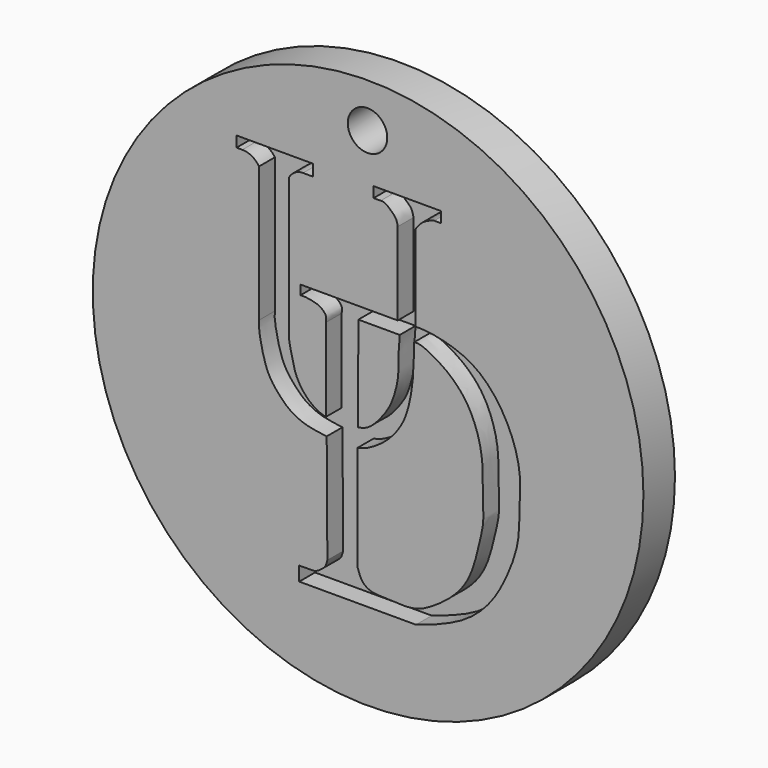
from build123d import *

# Parameters (mm, degrees)
F1_R     = 27.9179643297
F2_DEPTH = 4
F3_DEPTH = 2
F4_R     = 2
F5_DEPTH = 25


with BuildPart() as f2:
    # F1 (on Front) → F2 (new body)
    with BuildSketch(Plane.XZ):
        with Locations((34.4365164638, 29.3412599713)):
            Circle(F1_R)
    extrude(amount=-F2_DEPTH)

    # F0 (on Front) → F3 (cut)
    with BuildSketch(Plane.XZ):
        with BuildLine():
            Line((28.8679711521, 48.000831157), (21.2418399751, 48.000831157))
            Line((21.2418399751, 48.000831157), (21.1016796529, 48.000831157))
            Line((21.1016796529, 48.000831157), (21.1016796529, 46.9109527767))
            Line((21.1016796529, 46.9109527767), (21.6799061745, 46.9109527767))
            ThreePointArc((21.6799061745, 46.9109527767), (22.6499247341, 46.6616237032), (23.3794841915, 45.9754429758))
            Line((23.3794841915, 45.9754429758), (23.3794841915, 32.2561040521))
            add(Edge.make_bspline(
                [(23.3794841915, 32.2561040521), (23.3661779434, 32.0413049632), (23.3320361161, 31.4901628764), (23.6830336391, 29.7012833817), (24.04912574, 28.4066435414), (24.5758922104, 27.2393122591), (25.6286713635, 25.9943517485), (26.6272868609, 25.0908477478), (28.1867559009, 24.3640116011), (29.5303038983, 24.2007807914), (30.2409324795, 24.1144448519)],
                knots=[0, 0, 0, 0, 0.0888691777, 0.2280249154, 0.350012674, 0.4658880454, 0.5969114819, 0.716998109, 0.8503148137, 1, 1, 1, 1], degree=3))
            Line((30.2409324795, 24.1144448519), (30.3066652268, 13.0882738158))
            add(Edge.make_bspline(
                [(30.3066652268, 13.0882738158), (30.2519389049, 12.8681959728), (30.1482070308, 12.4510459374), (29.7504803796, 12.113676258), (29.1331387589, 11.6544957812), (28.4405708125, 11.6986950554), (27.8053497246, 11.6841554859), (27.4567119777, 11.6761755198)],
                knots=[0, 0, 0, 0, 0.1909217212, 0.3618856023, 0.5653560725, 0.7614479707, 1, 1, 1, 1], degree=3))
            Line((27.4567119777, 11.6761755198), (27.4567119777, 10.2444272488))
            Line((27.4567119777, 10.2444272488), (39.2920188606, 10.2444272488))
            add(Edge.make_bspline(
                [(39.2920188606, 10.2444272488), (39.774682126, 10.3988373959), (40.9569851668, 10.7770712485), (44.3231835186, 12.1005887696), (47.1546084039, 14.7204409379), (48.8954359497, 18.2960298868), (49.8018932136, 21.1532808912), (49.7495385908, 24.2814068636), (49.9847142006, 27.2262407584), (49.0185777967, 30.6280669447), (47.0902622954, 33.7806859912), (44.4294388961, 35.9695773633), (40.7821955148, 36.8440674423), (39.6719954936, 36.8345831371), (39.2397977412, 36.8308909237)],
                knots=[0, 0, 0, 0, 0.0615832149, 0.1508505567, 0.2445844204, 0.3383755074, 0.4203584246, 0.5031957528, 0.5846146114, 0.6729862854, 0.7635389413, 0.8519093339, 0.9423487193, 1, 1, 1, 1], degree=3))
            Line((39.2397977412, 36.8308909237), (39.2397977412, 45.2651903033))
            add(Edge.make_bspline(
                [(39.2397977412, 45.2651903033), (39.2267765482, 45.3390324549), (39.1951002718, 45.5186661031), (39.5358008729, 45.9054656845), (39.9151458428, 46.4211622217), (40.7868707349, 46.8253428314), (41.0441350327, 46.882763452), (41.1419421434, 46.9045937061)],
                knots=[0, 0, 0, 0, 0.1349216013, 0.3282198439, 0.56053159, 0.8329222679, 1, 1, 1, 1], degree=3))
            Line((41.1419421434, 46.9045937061), (41.8343655765, 46.9045937061))
            Line((41.8343655765, 46.9045937061), (41.8343655765, 47.9957386851))
            Line((41.8343655765, 47.9957386851), (34.9940881133, 47.9957386851))
            Line((34.9940881133, 47.9957386851), (34.9940881133, 46.9255782664))
            Line((34.9940881133, 46.9255782664), (35.7074923813, 46.9255782664))
            add(Edge.make_bspline(
                [(35.7074923813, 46.9255782664), (35.7725247196, 46.9332369871), (35.9309551857, 46.9518950075), (36.3382974268, 46.7609951149), (36.6952182588, 46.4487825628), (37.0128103957, 46.167012536), (37.339789857, 45.7546042988), (37.4062912416, 45.3744266144), (37.4407209456, 45.1775975525)],
                knots=[0, 0, 0, 0, 0.1164756704, 0.2837556706, 0.4602097948, 0.6255055551, 0.8061133168, 1, 1, 1, 1], degree=3))
            Line((37.4407209456, 45.1775975525), (37.4407209456, 36.8000268936))
            Line((37.4407209456, 36.8000268936), (27.5614373386, 36.8000268936))
            Line((27.5614373386, 36.8000268936), (27.5614373386, 35.8287543058))
            add(Edge.make_bspline(
                [(30.1494058222, 34.2443399131), (30.1896564321, 34.4509421046), (30.2766012041, 34.8972205701), (29.5772517128, 35.520044137), (29.0139060262, 35.687739493), (28.0963009598, 35.8817409513), (27.7230364986, 35.8447632417), (27.5614373386, 35.8287543058)],
                knots=[0, 0, 0, 0, 0.188016088, 0.4061308867, 0.5960955039, 0.8251357038, 1, 1, 1, 1], degree=3))
            Line((30.1494058222, 34.2443399131), (30.1494058222, 25.8165877312))
            add(Edge.make_bspline(
                [(26.4220070094, 32.4044786394), (26.4054135192, 32.144103332), (26.3671691029, 31.5439943998), (26.7250529812, 30.137856966), (26.997643123, 28.6904244326), (27.9178734275, 27.1039006684), (29.2097838012, 26.097703964), (29.864963328, 25.9016872719), (30.1494058222, 25.8165877312)],
                knots=[0, 0, 0, 0, 0.132106129, 0.304476138, 0.4817482165, 0.6765618752, 0.8595811634, 1, 1, 1, 1], degree=3))
            Line((26.4220070094, 32.4044786394), (26.4220070094, 45.9754429758))
            ThreePointArc((26.4220070094, 45.9754429758), (27.0076995947, 46.6092174693), (27.8382524848, 46.8434989452))
            Line((27.8382524848, 46.8434989452), (28.8679711521, 46.8434989452))
            Line((28.8679711521, 46.8434989452), (28.8679711521, 48.000831157))
        make_face()
        with BuildLine():
            add(Edge.make_bspline(
                [(39.09862414, 35.3939756751), (39.2489142969, 35.4107928497), (39.639265501, 35.4544723857), (40.8527321152, 34.9290898948), (42.4915814336, 33.920624453), (43.934425555, 32.5212947097), (44.9117436655, 31.0245386214), (45.6828391517, 29.0810146814), (46.1131529724, 26.7864365553), (46.0320421568, 24.1289257106), (46.2303553926, 21.67390112), (45.6862086311, 19.5074958509), (44.9519356526, 16.3357981895), (43.2911073701, 14.0788427037), (40.9393886003, 12.35222079), (38.9754938067, 11.387406624), (36.3568333041, 11.6507746265), (34.9065236601, 11.5992055554), (33.7840628182, 12.1906613468), (33.5150350229, 13.0170747001), (33.3767347038, 13.4411733598)],
                knots=[0, 0, 0, 0, 0.0278621403, 0.072346602, 0.1281760017, 0.184186641, 0.2368545361, 0.2935923676, 0.3541545772, 0.4189988933, 0.4805108226, 0.5397349175, 0.6105127582, 0.676938702, 0.7437706408, 0.8022168053, 0.8654938882, 0.9133444026, 0.9552158969, 1, 1, 1, 1], degree=3))
            Line((33.3767347038, 13.4411733598), (33.3767347038, 24.1144448519))
            add(Edge.make_bspline(
                [(33.3767347038, 24.1144448519), (33.6901716031, 24.1916175876), (34.4632174132, 24.38195274), (36.4247235951, 25.6354977326), (37.910338629, 27.5423966525), (38.5769336104, 29.3999250787), (38.987720793, 31.6925237691), (39.0753395699, 33.8937436106), (39.0914103783, 34.9291907767), (39.09862414, 35.3939756751)],
                knots=[0, 0, 0, 0, 0.1061132557, 0.2617126696, 0.4217322602, 0.5651750938, 0.7223566935, 0.8753732491, 1, 1, 1, 1], degree=3))
        make_face(mode=Mode.SUBTRACT)
        with BuildLine():
            Line((33.4505289793, 35.5766043067), (37.4476835132, 35.5766043067))
            Line((37.4476835132, 35.5766043067), (37.6491434872, 35.5766043067))
            add(Edge.make_bspline(
                [(33.4158986807, 25.9369481355), (33.7826276111, 26.0178916222), (34.6424104405, 26.2076607246), (36.1064740511, 27.9584988419), (36.8783895278, 29.2442653684), (37.5289813574, 31.4438618672), (37.514839846, 32.9876868997), (37.5193508062, 34.1826977599), (37.6115348752, 35.2757328046), (37.6396337795, 35.5005259857), (37.6491434872, 35.5766043067)],
                knots=[0, 0, 0, 0, 0.118540095, 0.2779130028, 0.4147721278, 0.5762668706, 0.7112726522, 0.8315398927, 0.9429868732, 1, 1, 1, 1], degree=3))
            Line((33.4158986807, 25.9369481355), (33.4505289793, 35.5766043067))
        make_face(mode=Mode.SUBTRACT)
    extrude(amount=-F3_DEPTH, mode=Mode.SUBTRACT)

    # F4 (on face) → F5 (cut)
    with BuildSketch(Plane.XZ):
        with Locations((34.3794152141, 52.7591659057)):
            Circle(F4_R)
    extrude(amount=-F5_DEPTH, mode=Mode.SUBTRACT)


solid = f2.part
